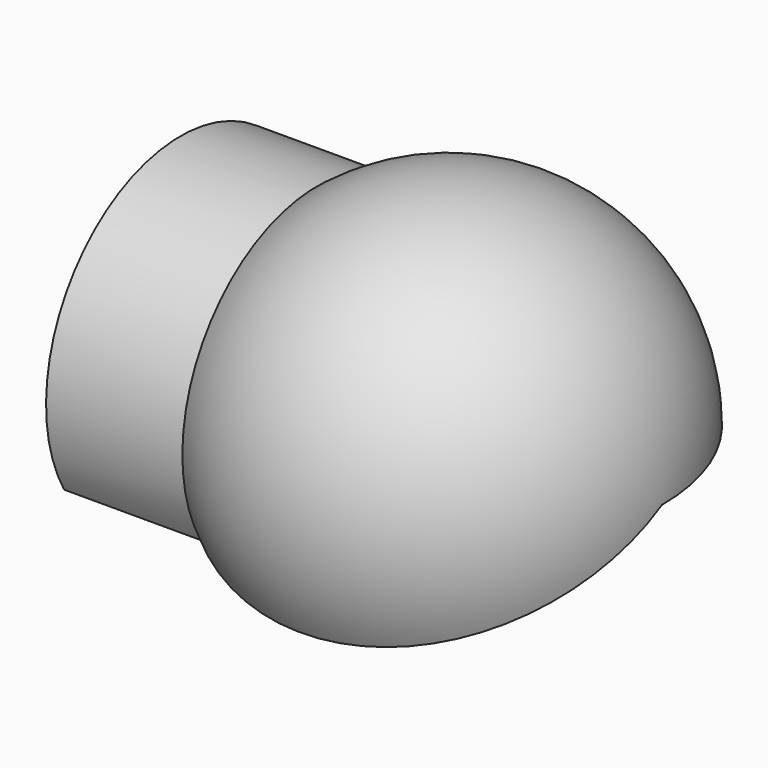
from build123d import *

# Parameters (mm, degrees)
F1_ANGLE = 210


with BuildPart() as f1:
    # F0 (on Top) → F1 (revolve)
    with BuildSketch(Plane.XY):
        with BuildLine():
            ThreePointArc((-52.622097741, 53.8459713087), (-52.0338750645, 54.3558524424), (-51.4290873458, 54.8459713087))
            Line((-51.4290873458, 54.8459713087), (-66.4290873458, 54.8459713087))
            Line((-66.4290873458, 54.8459713087), (-66.4290873458, 53.8459713087))
            Line((-66.4290873458, 53.8459713087), (-52.622097741, 53.8459713087))
        make_face()
        with BuildLine():
            Line((-14.4377105996, 36.3459713087), (-13.4377105996, 36.3459713087))
            ThreePointArc((-13.4377105996, 36.3459713087), (-26.6493033744, 57.4741202283), (-51.4290873458, 54.8459713087))
            Line((-51.4290873458, 54.8459713087), (-51.4290873458, 53.8459713087))
            Line((-51.4290873458, 53.8459713087), (-51.0798462234, 53.8459713087))
            ThreePointArc((-51.0798462234, 53.8459713087), (-27.2410114585, 56.6492721676), (-14.4377105996, 36.3459713087))
        make_face()
        with BuildLine():
            Line((-51.4290873458, 53.8459713087), (-51.4290873458, 54.8459713087))
            ThreePointArc((-51.4290873458, 54.8459713087), (-52.0338750645, 54.3558524424), (-52.622097741, 53.8459713087))
            Line((-52.622097741, 53.8459713087), (-51.4290873458, 53.8459713087))
        make_face()
    revolve(axis=Axis((-33.8413137943, 36.3459713087, 0), (1, 0, 0)), revolution_arc=F1_ANGLE)


solid = f1.part
